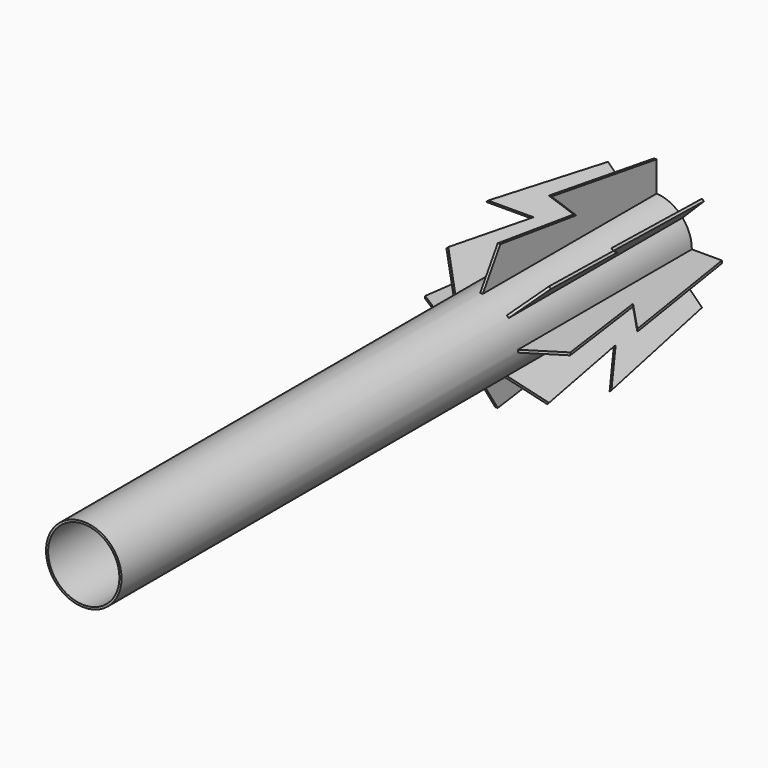
from build123d import *

# Parameters (mm, degrees)
F0_R     = 11.65
F0_R_2   = 11
F1_DEPTH = 220
F3_DEPTH = 0.8
F4_COUNT = 8


with BuildPart() as f1:
    # F0 (on Front) → F1 (new body)
    with BuildSketch(Plane.XZ):
        Circle(F0_R)
        Circle(F0_R_2, mode=Mode.SUBTRACT)
    extrude(amount=F1_DEPTH)

    # F2 (on Right) → F3 (join)
    with BuildSketch(Plane.YZ):
        Polygon((-67.270614, 11.36047), (0, 11.36047), (0, 20.928832), (-40.592879, 27.307741), (-31.023696, 18.319281), (-60.311206, 22.378588), align=None)
    extrude(amount=F3_DEPTH)

    # F4: F1 ×8 about axis
    f4_axis = Axis((0, 0, 0), (0, -1, 0))


with BuildPart() as f1_1:
    add(f1.part)
    for i in range(1, F4_COUNT):
        add(f1.part.rotate(f4_axis, i * 360 / F4_COUNT))


solid = f1_1.part
